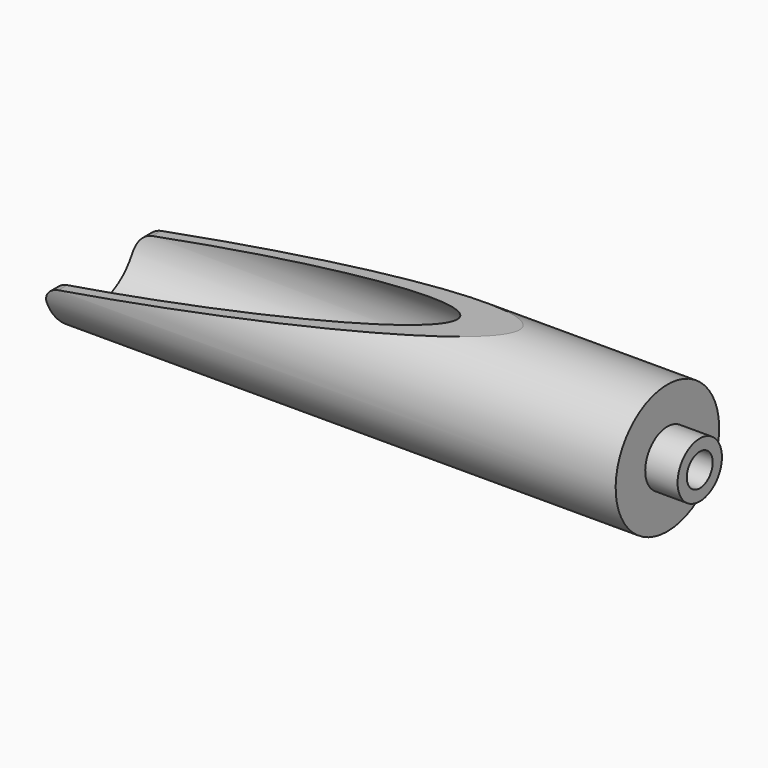
from build123d import *

# Parameters (mm, degrees)
F3_DEPTH = 38.1


with BuildPart() as f1:
    # F0 (on Front) → F1 (revolve)
    with BuildSketch(Plane.XZ):
        with BuildLine():
            Line((-11.1125, -9.525), (0, -9.525))
            Line((0, -9.525), (0, -5.55625))
            Line((0, -5.55625), (-23.8125, -5.55625))
            Line((-23.8125, -5.55625), (-23.8125, -15.28064))
            ThreePointArc((-23.8125, -15.28064), (-24.7424359697, -17.5257040303), (-26.9875, -18.45564))
            Line((-26.9875, -18.45564), (-207.9625, -18.45564))
            Line((-207.9625, -18.45564), (-207.9625, -22.225))
            Line((-207.9625, -22.225), (-11.1125, -22.225))
            Line((-11.1125, -22.225), (-11.1125, -9.525))
        make_face()
    revolve(axis=Axis((-103.98125, 0, 0), (1, 0, 0)))

    # F2 (on Front) → F3 (cut, symmetric)
    with BuildSketch(Plane.XZ):
        with BuildLine():
            Line((-61.9125, 22.225), (-214.3125, 22.225))
            Line((-214.3125, 22.225), (-214.3125, -22.225))
            Line((-214.3125, -22.225), (-207.9625, -22.225))
            Line((-207.9625, -22.225), (-207.9625, -8.8558381904))
            ThreePointArc((-207.9625, -8.8558381904), (-206.4768822138, -4.7741368689), (-202.7151659282, -2.6023089588))
            Line((-202.7151659282, -2.6023089588), (-61.9125, 22.225))
        make_face()
    extrude(amount=F3_DEPTH, both=True, mode=Mode.SUBTRACT)


solid = f1.part
